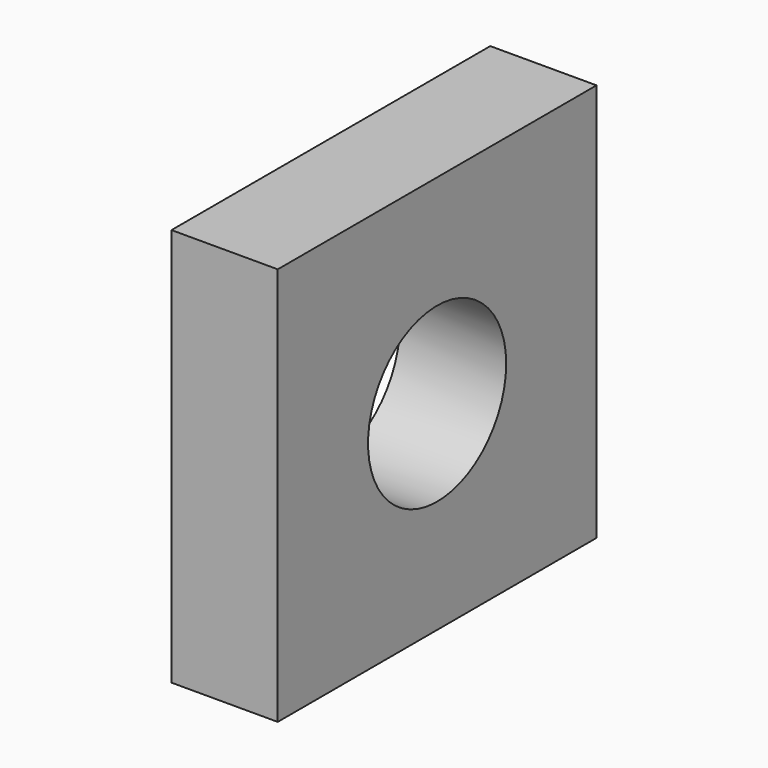
from build123d import *

# Parameters (mm, degrees)
F0_W     = 381
F0_H     = 381
F0_R     = 82.55
F1_DEPTH = 50.8


with BuildPart() as f1:
    # F0 (on Right) → F1 (new body, symmetric)
    with BuildSketch(Plane.YZ):
        with Locations((190.5, -190.5)):
            Rectangle(F0_W, F0_H)
        with Locations((190.5, -190.5)):
            Circle(F0_R, mode=Mode.SUBTRACT)
    extrude(amount=F1_DEPTH, both=True)


solid = f1.part
